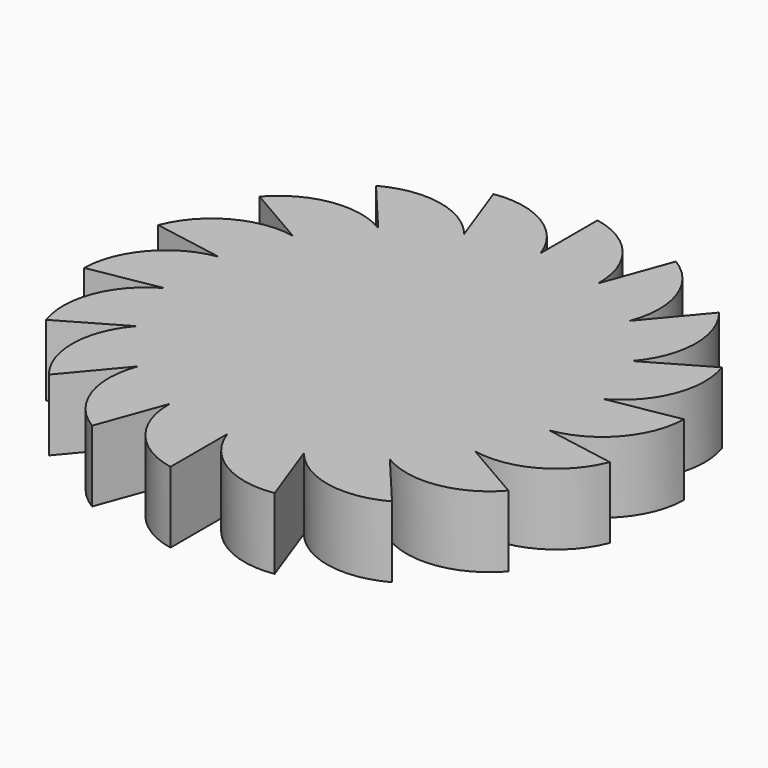
from build123d import *

# Parameters (mm, degrees)
F1_DEPTH = 10.16


with BuildPart() as f1:
    # F0 (on Top) → F1 (new body)
    with BuildSketch(Plane.XY):
        with BuildLine():
            ThreePointArc((9.556043, 26.255012), (6.934197, 33.917019), (0, 38.1))
            Line((0, 38.1), (0, 27.94))
            ThreePointArc((0, 27.94), (-5.08429, 34.243207), (-13.030967, 35.802289))
            Line((-13.030967, 35.802289), (-9.556043, 26.255012))
            ThreePointArc((-9.556043, 26.255012), (-16.489536, 30.43916), (-24.490208, 29.186293))
            Line((-24.490208, 29.186293), (-17.959486, 21.403282))
            ThreePointArc((-17.959486, 21.403282), (-25.905901, 22.9637), (-32.995568, 19.05))
            Line((-32.995568, 19.05), (-24.19675, 13.97))
            ThreePointArc((-24.19675, 13.97), (-32.197632, 12.71848), (-37.521175, 6.615996))
            Line((-37.521175, 6.615996), (-27.515529, 4.85173))
            ThreePointArc((-27.515529, 4.85173), (-34.605854, 0.939223), (-37.521175, -6.615996))
            Line((-37.521175, -6.615996), (-27.515529, -4.85173))
            ThreePointArc((-27.515529, -4.85173), (-32.840098, -10.953318), (-32.995568, -19.05))
            Line((-32.995568, -19.05), (-24.19675, -13.97))
            ThreePointArc((-24.19675, -13.97), (-27.113343, -21.524728), (-24.490208, -29.186293))
            Line((-24.490208, -29.186293), (-17.959486, -21.403282))
            ThreePointArc((-17.959486, -21.403282), (-18.116318, -29.499937), (-13.030967, -35.802289))
            Line((-13.030967, -35.802289), (-9.556043, -26.255012))
            ThreePointArc((-9.556043, -26.255012), (-6.934197, -33.917019), (0, -38.1))
            Line((0, -38.1), (0, -27.94))
            ThreePointArc((0, -27.94), (5.08429, -34.243207), (13.030967, -35.802289))
            Line((13.030967, -35.802289), (9.556043, -26.255012))
            ThreePointArc((9.556043, -26.255012), (16.489536, -30.43916), (24.490208, -29.186293))
            Line((24.490208, -29.186293), (17.959486, -21.403282))
            ThreePointArc((17.959486, -21.403282), (25.905901, -22.9637), (32.995568, -19.05))
            Line((32.995568, -19.05), (24.19675, -13.97))
            ThreePointArc((24.19675, -13.97), (32.197632, -12.71848), (37.521175, -6.615996))
            Line((37.521175, -6.615996), (27.515529, -4.85173))
            ThreePointArc((27.515529, -4.85173), (34.605854, -0.939223), (37.521175, 6.615996))
            Line((37.521175, 6.615996), (27.515529, 4.85173))
            ThreePointArc((27.515529, 4.85173), (32.840098, 10.953318), (32.995568, 19.05))
            Line((32.995568, 19.05), (24.19675, 13.97))
            ThreePointArc((24.19675, 13.97), (27.113343, 21.524728), (24.490208, 29.186293))
            Line((24.490208, 29.186293), (17.959486, 21.403282))
            ThreePointArc((17.959486, 21.403282), (18.116318, 29.499937), (13.030967, 35.802289))
            Line((13.030967, 35.802289), (9.556043, 26.255012))
        make_face()
    extrude(amount=F1_DEPTH)


solid = f1.part
